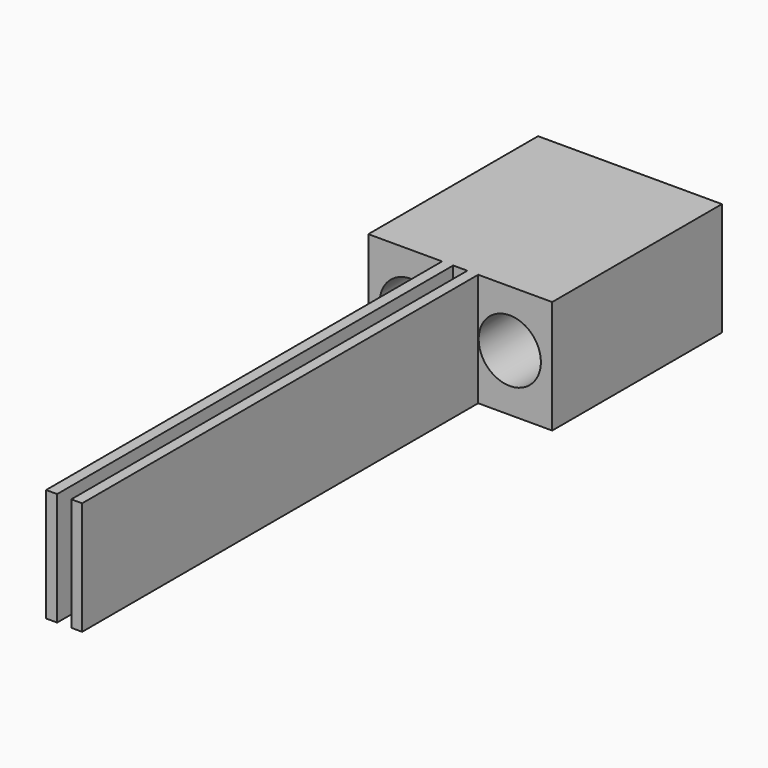
from build123d import *

# Parameters (mm, degrees)
F0_R     = 2.2
F0_W     = 1
F0_H     = 8
F1_DEPTH = 15
F2_W     = 0.7826865613
F2_H     = 8
F2_W_2   = 0.7686790824
F3_DEPTH = 35


with BuildPart() as f1:
    # F0 (on Front) → F1 (new body)
    with BuildSketch(Plane.XZ):
        Polygon((-62.1743222356, 27.3653858304), (-67.3743222356, 27.3653858304), (-67.3743222356, 19.3653858304), (-62.1743222356, 19.3653858304), (-62.1743222356, 23.3653858304), align=None)
        with Locations((-64.3743222356, 23.3653858304)):
            Circle(F0_R, mode=Mode.SUBTRACT)
        Polygon((-61.3743222356, 27.3653858304), (-62.1743222356, 27.3653858304), (-62.1743222356, 23.3653858304), (-62.1743222356, 19.3653858304), (-61.3743222356, 19.3653858304), align=None)
        with Locations((-60.8743222356, 23.3653858304)):
            Rectangle(F0_W, F0_H)
        Polygon((-59.5743222356, 27.3653858304), (-60.3743222356, 27.3653858304), (-60.3743222356, 19.3653858304), (-59.5743222356, 19.3653858304), (-59.5743222356, 23.3653858304), align=None)
        Polygon((-54.3743222356, 27.3653858304), (-59.5743222356, 27.3653858304), (-59.5743222356, 23.3653858304), (-59.5743222356, 19.3653858304), (-54.3743222356, 19.3653858304), align=None)
        with BuildLine():
            ThreePointArc((-55.1743222356, 23.3653858304), (-57.3743222356, 21.1653858304), (-59.5743222356, 23.3653858304))
            ThreePointArc((-59.5743222356, 23.3653858304), (-57.3743222356, 25.5653858304), (-55.1743222356, 23.3653858304))
        make_face(mode=Mode.SUBTRACT)
    extrude(amount=F1_DEPTH)

    # F2 (on face) → F3 (join)
    with BuildSketch(Plane.XZ.offset(15)):
        with Locations((-61.7656655163, 23.3653858304)):
            Rectangle(F2_W, F2_H)
        with Locations((-59.9899826944, 23.3653858304)):
            Rectangle(F2_W_2, F2_H)
    extrude(amount=F3_DEPTH)


solid = f1.part
